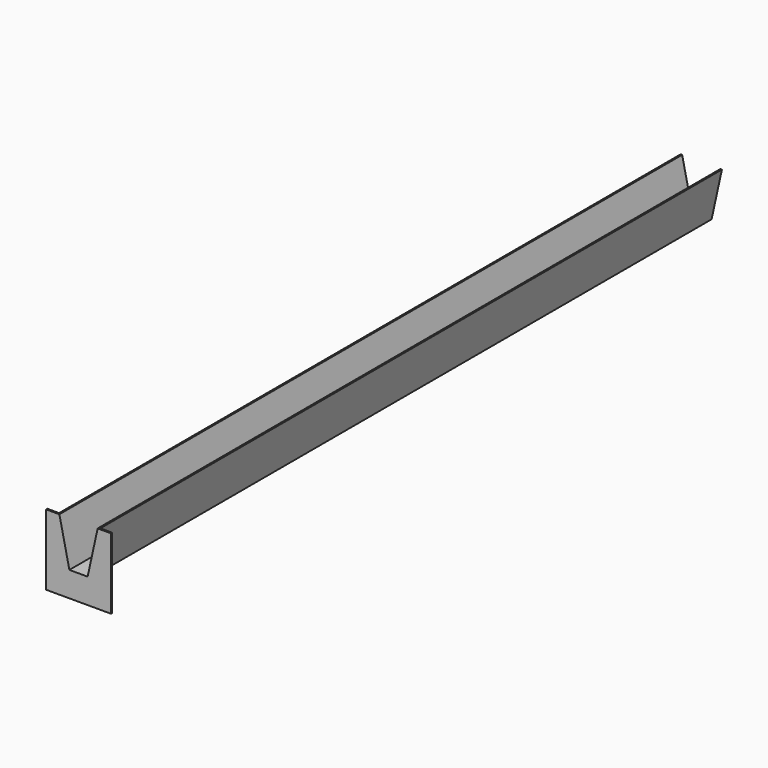
from build123d import *

# Parameters (mm, degrees)
F1_DEPTH = 1676.4
F2_T     = -3.175
F3_DEPTH = 25.4
F4_DEPTH = 25.4
F6_DEPTH = 3.175


with BuildPart() as f1:
    # F0 (on Front) → F1 (new body)
    with BuildSketch(Plane.XZ):
        Polygon((-22.225, 0), (0, 0), (22.225, 0), (44.45, 101.6), (-44.45, 101.6), align=None)
    extrude(amount=F1_DEPTH)

    # F2
    f2_openings = [f1.faces().sort_by_distance(p)[0] for p in [
        (0, -838.2, 101.6),
    ]]
    offset(amount=F2_T, openings=f2_openings)

    # F3 (cut): a face of the model
    f3_faces = [f1.faces().sort_by_distance(p)[0] for p in [
        (0, -1673.225, 58.1899151132),
    ]]
    extrude(f3_faces, amount=-F3_DEPTH, mode=Mode.SUBTRACT)

    # F4 (cut): a face of the model
    f4_faces = [f1.faces().sort_by_distance(p)[0] for p in [
        (0, -3.175, 58.1899151132),
    ]]
    extrude(f4_faces, amount=-F4_DEPTH, mode=Mode.SUBTRACT)

    # F5 (on face) → F6 (join)
    with BuildSketch(Plane.XZ.offset(1676.4)):
        Polygon((69.85, 101.6), (44.45, 101.6), (22.225, 0), (-22.225, 0), (-44.45, 101.6), (-69.85, 101.6), (-69.85, -50.8), (69.85, -50.8), align=None)
    extrude(amount=-F6_DEPTH)


solid = f1.part
